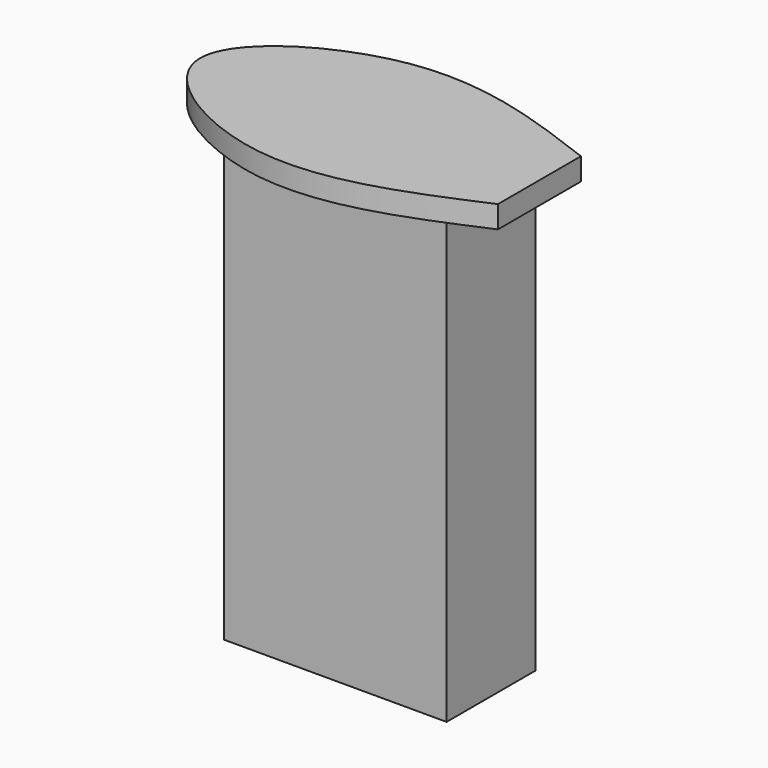
from build123d import *

# Parameters (mm, degrees)
F0_W     = 25.4
F0_H     = 12.7
F1_DEPTH = 50.8
F3_DEPTH = 2.54


with BuildPart() as f1:
    # F0 (on Top) → F1 (new body)
    with BuildSketch(Plane.XY):
        with Locations((3.9823967963, 9.0064416884)):
            Rectangle(F0_W, F0_H)
    extrude(amount=F1_DEPTH)

    # F2 (on face) → F3 (join)
    with BuildSketch(Plane.XY.offset(50.8)):
        with BuildLine():
            add(Edge.make_bspline(
                [(21.8469314277, 15.3598254547), (14.1192361235, 18.274966324), (-0.3038731664, 23.7158375926), (-16.4561851304, 13.6896794298), (-16.4707750082, 8.9831112345)],
                knots=[0, 0, 0, 0, 0.2673728125, 0.4990294187, 0.4990294187, 0.4990294187, 0.4990294187], degree=3))
            Line((-16.4707750082, 8.9831112345), (-16.4707750082, 8.9556017192))
            add(Edge.make_bspline(
                [(-16.4707750082, 8.9556017192), (-16.4561117132, 4.2283781908), (-0.1520425473, -6.040668303), (14.1780883008, 0.1872057549), (21.8469314277, 3.520084545)],
                knots=[0.4994807474, 0.4994807474, 0.4994807474, 0.4994807474, 0.7321445512, 1, 1, 1, 1], degree=3))
            Line((21.8469314277, 3.520084545), (21.8469314277, 15.3598254547))
        make_face()
    extrude(amount=F3_DEPTH)


solid = f1.part
